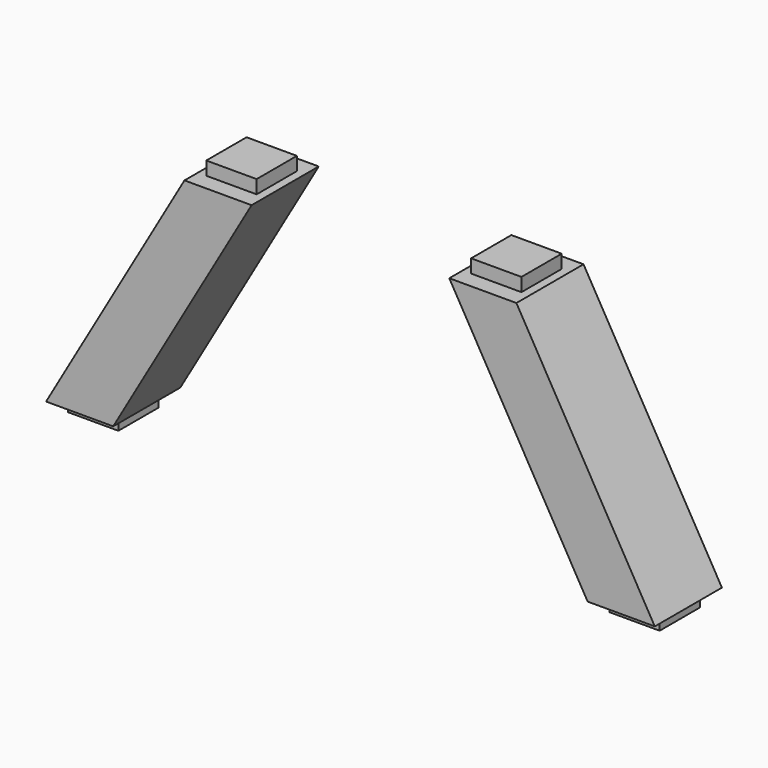
from build123d import *

# Parameters (mm, degrees)
F1_DEPTH = 12.5
F0_W     = 15
F0_H     = 4
F2_DEPTH = 7.5


with BuildPart() as f1:
    # F0 (on Front) → F1 (new body, symmetric)
    with BuildSketch(Plane.XZ):
        Polygon((31.949712, 50.425649), (29.449712, 50.425649), (70.680769, -20.988636), (73.18017, -20.988636), (88.181367, -20.988636), (90.680769, -20.988636), (49.449712, 50.425649), (46.949712, 50.425649), align=None)
    extrude(amount=F1_DEPTH, both=True)

    # F0 (on Front) → F2 (join, symmetric)
    with BuildSketch(Plane.XZ):
        with Locations((39.449712, 52.425649)):
            Rectangle(F0_W, F0_H)
        Polygon((88.181367, -20.988636), (73.18017, -20.988636), (73.129631, -24.988316), (88.130829, -24.988316), align=None)
    extrude(amount=F2_DEPTH, both=True)


with BuildPart() as f3_1:
    # F3: instance of F1
    add(f1.part.mirror(Plane.YZ))


solid = Compound([f1.part, f3_1.part])
